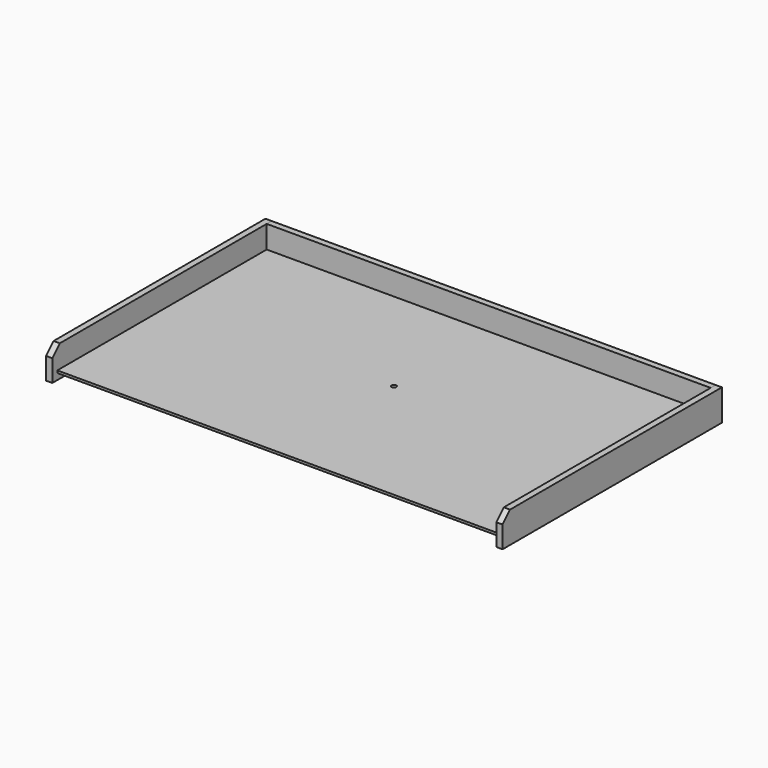
from build123d import *

# Parameters (mm, degrees)
F0_W      = 558.8
F0_H      = 63.5
F1_DEPTH  = 12.7
F2_SIZE   = 19.05
F4_W      = 904.875
F4_H      = 12.7
F5_DEPTH  = 63.5
F7_W      = 904.875
F7_H      = 533.4
F8_DEPTH  = 4.7625
F10_R     = 4.7625
F11_DEPTH = 63.501


with BuildPart() as f1:
    # F0 (on Right) → F1 (new body)
    with BuildSketch(Plane.YZ):
        with Locations((279.4, 31.75)):
            Rectangle(F0_W, F0_H)
    extrude(amount=F1_DEPTH)

    # F2
    f2_edges = [f1.edges().sort_by_distance(p)[0] for p in [
        (6.35, 0, 63.5),
    ]]
    chamfer(f2_edges, length=F2_SIZE)


with BuildPart() as f1_1:
    # F3: moved
    add(f1.part.moved(Location((-465.1375, 0, 0))))


with BuildPart() as f5:
    # F4 (on Top) → F5 (new body)
    with BuildSketch(Plane.XY):
        with Locations((0, 552.45)):
            Rectangle(F4_W, F4_H)
    extrude(amount=F5_DEPTH)


with BuildPart() as f6_1:
    # F6: instance of F1
    add(f1_1.part.mirror(Plane.YZ))


with BuildPart() as f8:
    # F7 (on Top) → F8 (new body)
    with BuildSketch(Plane.XY):
        with Locations((0, 279.4)):
            Rectangle(F7_W, F7_H)
    extrude(amount=F8_DEPTH)


with BuildPart() as f8_1:
    # F9: moved
    add(f8.part.moved(Location((0, 0, 12.7))))

    # F10 (on Top) → F11 (cut, through all)
    with BuildSketch(Plane.XY):
        with Locations((0, 304.8)):
            Circle(F10_R)
    extrude(amount=F11_DEPTH, mode=Mode.SUBTRACT)


solid = Compound([f1_1.part, f5.part, f6_1.part, f8_1.part])
